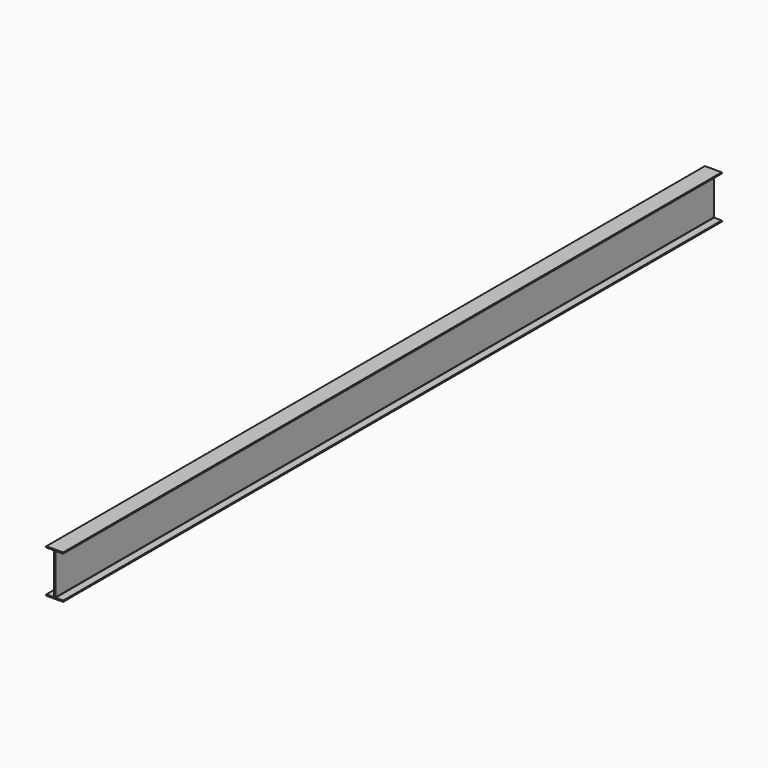
from build123d import *

# Parameters (mm, degrees)
F1_DEPTH = 10000
F2_R     = 5


with BuildPart() as f1:
    # F0 (on Front) → F1 (new body)
    with BuildSketch(Plane.XZ):
        Polygon((0, 15), (0, 0), (210, 0), (210, 15), (112.5, 15), (112.5, 515), (210, 515), (210, 530), (0, 530), (0, 515), (97.5, 515), (97.5, 15), align=None)
    extrude(amount=F1_DEPTH)

    # F2
    f2_edges = [f1.edges().sort_by_distance(p)[0] for p in [
        (0, -5000, 530),
        (0, -5000, 515),
        (210, -5000, 530),
        (0, -5000, 15),
        (0, -5000, 0),
        (210, -5000, 15),
        (210, -5000, 0),
        (210, -5000, 515),
        (112.5, -5000, 15),
        (97.5, -5000, 15),
        (97.5, -5000, 515),
        (112.5, -5000, 515),
    ]]
    fillet(f2_edges, radius=F2_R)


solid = f1.part
